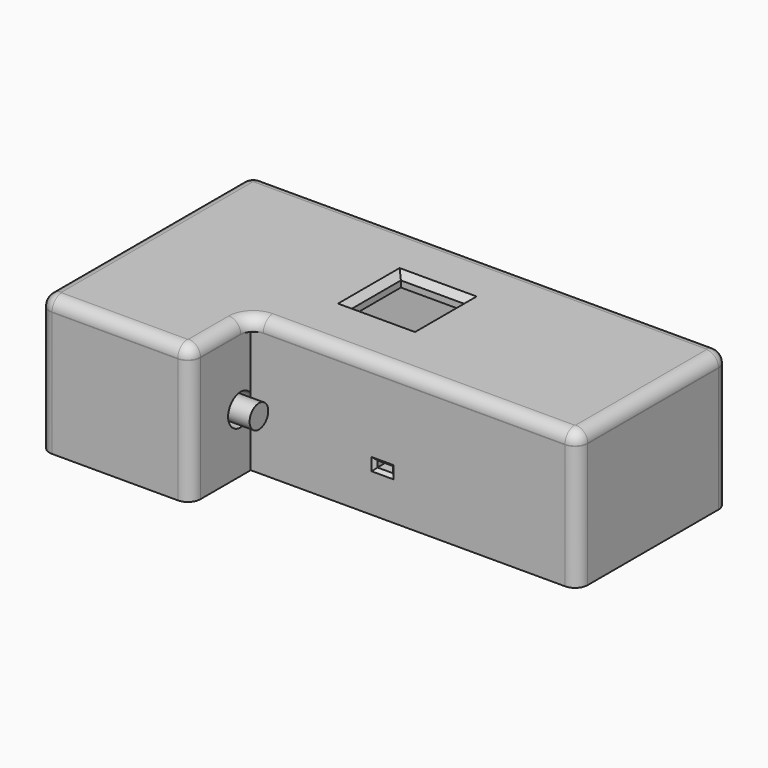
from build123d import *

# Parameters (mm, degrees)
PAD_DEPTH               = 19.8
FILLET_R                = 2
POCKET_DEPTH            = 17.8
SKETCH011_R             = 2.5
POCKET003_DEPTH         = 5
SKETCH012_W             = 2.5
SKETCH012_H             = 1
POCKET004_DEPTH         = 2
CHAMFER001_SIZE         = 0.5
SKETCH013_R             = 4.25
PAD007_DEPTH            = 3
SKETCH014_R             = 2.78
POCKET005_DEPTH         = 4
POCKET006_DEPTH         = 2
SKETCH018_R             = 4.9
POCKET007_DEPTH         = 1
SKETCH002_R             = 1.5
PAD001_DEPTH            = 1.6
SKETCH003_W             = 8.4
SKETCH003_H             = 13
PAD002_DEPTH            = 5.6
SKETCH004_R             = 1.85
PAD003_DEPTH            = 5.3
SKETCH006_W             = 7.1
SKETCH006_H             = 8.6
PAD004_DEPTH            = 5.4
SKETCH009_W             = 3.2
SKETCH009_H             = 1.5
PAD006_DEPTH            = 1
PAD005_DEPTH            = 2
FILLET001_R             = 2
FILLET002_R             = 1.9
SKETCH008_W             = 10.25
SKETCH008_H             = 10.25
POCKET001_DEPTH         = 2.001
CHAMFER_SIZE            = 1
SKETCH015_R             = 4.9
PAD008_DEPTH            = 4
PAD009_DEPTH            = 8.3
BODY003_PLACEMENT_ANGLE = 180
PAD011_DEPTH            = 27
SKETCH022_W             = 1.65
SKETCH022_H             = 21
POCKET008_DEPTH         = 4.801
PAD013_DEPTH            = 1.5
PAD014_DEPTH            = 1.5
CHAMFER003_SIZE         = 0.25
CHAMFER004_SIZE         = 0.25
SKETCH023_W             = 2
SKETCH023_H             = 26.7
PAD012_DEPTH            = 1.5
CHAMFER002_SIZE         = 0.5
SKETCH026_W             = 9.56
SKETCH026_H             = 9.56
SKETCH026_R             = 2.78
PAD015_DEPTH            = 4
FILLET003_R             = 2


with BuildPart() as box:
    # Sketch → Pad (new body)
    with BuildSketch(Plane.XY):
        Polygon((0, 0), (0, 42), (76, 42), (76, 12), (24, 12), (24, 0), align=None)
    extrude(amount=PAD_DEPTH)

    # Fillet
    fillet_edges = [box.edges().sort_by_distance(p)[0] for p in [
        (0, 0, 9.9),
        (24, 0, 9.9),
        (76, 12, 9.9),
        (76, 42, 9.9),
        (0, 42, 9.9),
    ]]
    fillet(fillet_edges, radius=FILLET_R)

    # Sketch001 (on Face8 of Pad) → Pocket (cut)
    with BuildSketch(Plane.XY.offset(19.8)):
        Polygon((2, 40), (74, 40), (74, 14), (22, 14), (22, 2), (2, 2), align=None)
    extrude(amount=-POCKET_DEPTH, mode=Mode.SUBTRACT)

    # Sketch011 → Pocket003 (cut)
    with BuildSketch(Plane.YZ.offset(24)):
        with Locations((10, 9.3)):
            Circle(SKETCH011_R)
    extrude(amount=-POCKET003_DEPTH, mode=Mode.SUBTRACT)

    # Sketch012 (on Face12 of Pocket003) → Pocket004 (cut)
    with BuildSketch(Plane.XZ.offset(-12)):
        with Locations((45, 7.1)):
            Rectangle(SKETCH012_W, SKETCH012_H)
    extrude(amount=-POCKET004_DEPTH, mode=Mode.SUBTRACT)

    # Chamfer001
    chamfer001_edges = [box.edges().sort_by_distance(p)[0] for p in [
        (46.25, 12, 7.1),
        (45, 12, 6.6),
        (43.75, 12, 7.1),
        (45, 12, 7.6),
    ]]
    chamfer(chamfer001_edges, length=CHAMFER001_SIZE)

    # Sketch013 (on Face30 of Chamfer001) → Pad007 (join)
    with BuildSketch(Plane.XY.offset(2)):
        with Locations((19.2, 32.92)):
            Circle(SKETCH013_R)
        with Locations((21.05, 22.75)):
            Circle(SKETCH013_R)
        with Locations((49.55, 22.45)):
            Circle(SKETCH013_R)
    extrude(amount=PAD007_DEPTH)

    # Sketch014 (on Face36 of Pad007) → Pocket005 (cut)
    with BuildSketch(Plane.XY.offset(5)):
        with Locations((21.05, 22.75)):
            Circle(SKETCH014_R)
        with Locations((19.2, 32.92)):
            Circle(SKETCH014_R)
        with Locations((49.55, 22.45)):
            Circle(SKETCH014_R)
    extrude(amount=-POCKET005_DEPTH, mode=Mode.SUBTRACT)

    # Sketch017 (on Face19 of Pocket005) → Pocket006 (cut)
    with BuildSketch(Plane(origin=(0, 42, 0), x_dir=(-1, 0, 0), z_dir=(0, 1, 0))):
        with BuildLine():
            ThreePointArc((-63.65, 10.996873), (-67, 12.9), (-70.35, 10.996873))
            Line((-70.35, 7.003127), (-70.35, 10.996873))
            ThreePointArc((-70.35, 7.003127), (-67, 5.1), (-63.65, 7.003127))
            Line((-63.65, 7.003127), (-63.65, 10.996873))
        make_face()
    extrude(amount=-POCKET006_DEPTH, mode=Mode.SUBTRACT)

    # Sketch018 (on Face15 of Pocket006) → Pocket007 (cut)
    with BuildSketch(Plane(origin=(0, 42, 0), x_dir=(-1, 0, 0), z_dir=(0, 1, 0))):
        with Locations((-67, 9)):
            Circle(SKETCH018_R)
    extrude(amount=-POCKET007_DEPTH, mode=Mode.SUBTRACT)


with BuildPart() as boardmockup:
    # Sketch002 → Pad001 (new body)
    with BuildSketch(Plane.XY):
        Polygon((0, 0), (0, 32.35), (23, 32.35), (23, 27.85), (38.4, 27.85), (38.4, 22.35), (43.4, 22.35), (43.4, 14.85), (38.4, 14.85), (38.4, 9.85), (13, 9.85), (13, 0), align=None)
        with Locations((40.55, 18.25)):
            Circle(SKETCH002_R, mode=Mode.SUBTRACT)
        with Locations((10.2, 28.55)):
            Circle(SKETCH002_R, mode=Mode.SUBTRACT)
        with Locations((12.05, 18.55)):
            Circle(SKETCH002_R, mode=Mode.SUBTRACT)
    extrude(amount=PAD001_DEPTH)

    # Sketch003 (on Face17 of Pad001) → Pad002 (join)
    with BuildSketch(Plane.XY.offset(1.6)):
        with Locations((8.4, 8)):
            Rectangle(SKETCH003_W, SKETCH003_H)
    extrude(amount=PAD002_DEPTH)

    # Sketch004 (on Face19 of Pad002) → Pad003 (join)
    with BuildSketch(Plane.YZ.offset(12.6)):
        with Locations((5.8, 4.3)):
            Circle(SKETCH004_R)
    extrude(amount=PAD003_DEPTH)

    # Sketch006 (on Face5 of Pad003) → Pad004 (join)
    with BuildSketch(Plane.XY.offset(1.6)):
        with Locations((27.75, 23.05)):
            Rectangle(SKETCH006_W, SKETCH006_H)
    extrude(amount=PAD004_DEPTH)

    # Sketch009 (on Face5 of Pad004) → Pad006 (join)
    with BuildSketch(Plane.XY.offset(1.6)):
        with Locations((36, 11.6)):
            Rectangle(SKETCH009_W, SKETCH009_H)
    extrude(amount=PAD006_DEPTH)


with BuildPart() as boardmockup_1:
    # Body001 placement: moved
    add(boardmockup.part.moved(Location((9, 4.2, 5))))


with BuildPart() as lid:
    # Sketch007 → Pad005 (new body)
    with BuildSketch(Plane.XY):
        Polygon((0, 0), (0, 42), (76, 42), (76, 12), (24, 12), (24, 0), align=None)
    extrude(amount=PAD005_DEPTH)

    # Fillet001
    fillet001_edges = [lid.edges().sort_by_distance(p)[0] for p in [
        (0, 42, 1),
        (0, 0, 1),
        (24, 0, 1),
        (76, 12, 1),
        (76, 42, 1),
        (24, 12, 1),
    ]]
    fillet(fillet001_edges, radius=FILLET001_R)

    # Fillet002
    fillet002_edges = [lid.edges().sort_by_distance(p)[0] for p in [
        (0, 21, 2),
        (0.585786, 0.585786, 2),
        (0.585786, 41.414214, 2),
        (12, 0, 2),
        (38, 42, 2),
        (23.414214, 0.585786, 2),
        (75.414214, 41.414214, 2),
        (24, 6, 2),
        (76, 27, 2),
        (24.585786, 11.414214, 2),
        (75.414214, 12.585786, 2),
        (50, 12, 2),
    ]]
    fillet(fillet002_edges, radius=FILLET002_R)

    # Sketch008 (on Face8 of Fillet002) → Pocket001 (cut, through all)
    with BuildSketch(Plane.XY.offset(2)):
        with Locations((36.75, 27.2)):
            Rectangle(SKETCH008_W, SKETCH008_H)
    extrude(amount=-POCKET001_DEPTH, mode=Mode.SUBTRACT)

    # Chamfer
    chamfer_edges = [lid.edges().sort_by_distance(p)[0] for p in [
        (41.875, 27.2, 2),
        (36.75, 22.075, 2),
        (31.625, 27.2, 2),
        (36.75, 32.325, 2),
    ]]
    chamfer(chamfer_edges, length=CHAMFER_SIZE)


with BuildPart() as lid_1:
    # Body002 placement: moved
    add(lid.part.moved(Location((0, 0, 19.8))))


with BuildPart() as powermockup:
    # Sketch015 → Pad008 (new body)
    with BuildSketch(Plane.XZ):
        Circle(SKETCH015_R)
    extrude(amount=-PAD008_DEPTH)

    # Sketch016 (on Face3 of Pad008) → Pad009 (join)
    with BuildSketch(Plane(origin=(0, 4, 0), x_dir=(1, 0, 0), z_dir=(0, 1, 0))):
        with BuildLine():
            Line((-3.35, -1.996873), (-3.35, 1.996873))
            ThreePointArc((3.35, 1.996873), (0, 3.9), (-3.35, 1.996873))
            Line((3.35, -1.996873), (3.35, 1.996873))
            ThreePointArc((-3.35, -1.996873), (0, -3.9), (3.35, -1.996873))
        make_face()
    extrude(amount=PAD009_DEPTH)


with BuildPart() as powermockup_1:
    # Body003 placement: moved
    add(powermockup.part.moved(Location((67, 45, 9))).rotate(Axis((67, 45, 9), (0, 0, 1)), BODY003_PLACEMENT_ANGLE))


with BuildPart() as latch_hook:
    # Sketch021 → Pad011 (new body)
    with BuildSketch(Plane.XZ.offset(-7.5)):
        Polygon((2.2, -3.15), (4.777427, -3.15), (7, 0), (4, 0), (4, -1.65), (2.7, -1.65), (2.2, -2.15), align=None)
    extrude(amount=-PAD011_DEPTH)

    # Sketch022 (on Face7 of Pad011) → Pocket008 (cut, through all)
    with BuildSketch(Plane(origin=(2.2, 7.5, 0), x_dir=(0, 0, -1), z_dir=(-1, 0, 0))):
        with Locations((2.325, -13.5)):
            Rectangle(SKETCH022_W, SKETCH022_H)
    extrude(amount=-POCKET008_DEPTH, mode=Mode.SUBTRACT)

    # Sketch024 (on Face2 of Pocket008) → Pad013 (join)
    with BuildSketch(Plane.XZ.offset(-7.5)):
        Polygon((7, 0), (2.2, 0), (2.2, -3.15), (4.777427, -3.15), align=None)
    extrude(amount=PAD013_DEPTH)

    # Sketch025 (on Face10 of Pad013) → Pad014 (join)
    with BuildSketch(Plane(origin=(0, 34.5, 0), x_dir=(1, 0, 0), z_dir=(0, 1, 0))):
        Polygon((7, 0), (4.777427, 3.15), (2.2, 3.15), (2.2, 0), align=None)
    extrude(amount=PAD014_DEPTH)

    # Chamfer003
    chamfer003_edges = [latch_hook.edges().sort_by_distance(p)[0] for p in [
        (2.2, 34.5, -1.075),
    ]]
    chamfer(chamfer003_edges, length=CHAMFER003_SIZE)

    # Chamfer004
    chamfer004_edges = [latch_hook.edges().sort_by_distance(p)[0] for p in [
        (2.2, 7.5, -1.075),
    ]]
    chamfer(chamfer004_edges, length=CHAMFER004_SIZE)


with BuildPart() as latch_hook_1:
    # Body004 placement: moved
    add(latch_hook.part.moved(Location((0, 0, 19.8))))


with BuildPart() as latch:
    # Sketch023 → Pad012 (new body)
    with BuildSketch(Plane.XY):
        with Locations((3, 21)):
            Rectangle(SKETCH023_W, SKETCH023_H)
    extrude(amount=-PAD012_DEPTH)

    # Chamfer002
    chamfer002_edges = [latch.edges().sort_by_distance(p)[0] for p in [
        (4, 21, -1.5),
    ]]
    chamfer(chamfer002_edges, length=CHAMFER002_SIZE)


with BuildPart() as latch_1:
    # Body005 placement: moved
    add(latch.part.moved(Location((0, 0, 19.8))))


with BuildPart() as latchscrew:
    # Sketch026 → Pad015 (new body)
    with BuildSketch(Plane.YZ):
        with Locations((27, -4.78)):
            Rectangle(SKETCH026_W, SKETCH026_H)
        with Locations((27, -4.78)):
            Circle(SKETCH026_R, mode=Mode.SUBTRACT)
    extrude(amount=-PAD015_DEPTH)

    # Fillet003
    fillet003_edges = [latchscrew.edges().sort_by_distance(p)[0] for p in [
        (-4, 27, -9.56),
    ]]
    fillet(fillet003_edges, radius=FILLET003_R)


with BuildPart() as latchscrew_1:
    # Body006 placement: moved
    add(latchscrew.part.moved(Location((74, 0, 19.8))))


solid = Compound([box.part, boardmockup_1.part, lid_1.part, powermockup_1.part, latch_hook_1.part, latch_1.part, latchscrew_1.part])
